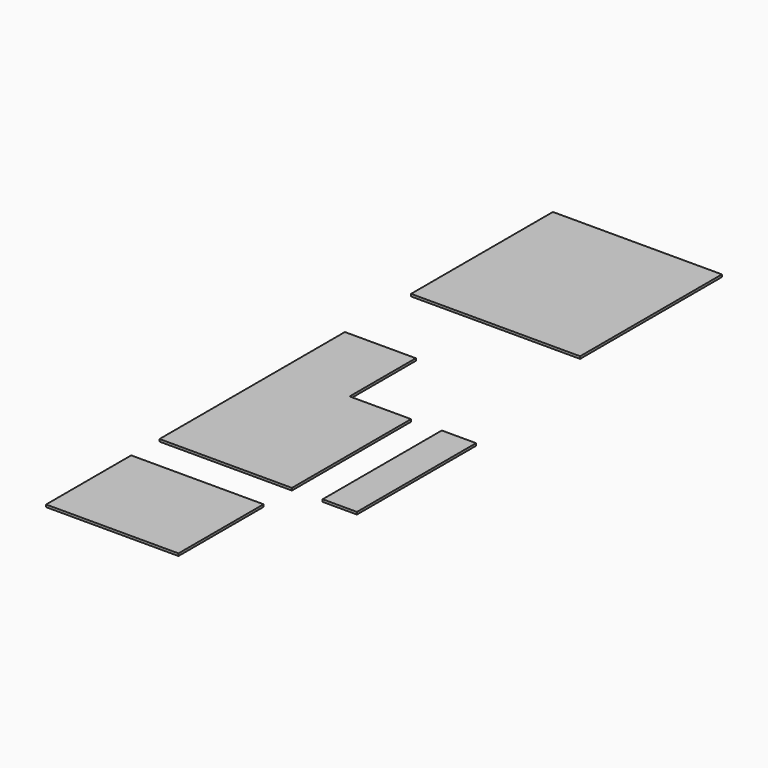
from build123d import *

# Parameters (mm, degrees)
F0_W     = 715
F0_H     = 750
F1_DEPTH = 10
F3_DEPTH = 10
F4_W     = 145
F4_H     = 630
F5_DEPTH = 10
F6_W     = 560
F6_H     = 450
F7_DEPTH = 10


with BuildPart() as f1:
    # F0 (on Top) → F1 (new body)
    with BuildSketch(Plane.XY):
        with Locations((357.5, -375)):
            Rectangle(F0_W, F0_H)
    extrude(amount=F1_DEPTH)


with BuildPart() as f3:
    # F2 (on Top) → F3 (new body)
    with BuildSketch(Plane.XY):
        Polygon((300, -1100), (0, -1100), (0, -2080), (560, -2080), (560, -1450), (300, -1450), align=None)
    extrude(amount=F3_DEPTH)


with BuildPart() as f5:
    # F4 (on Top) → F5 (new body)
    with BuildSketch(Plane.XY):
        with Locations((762.5, -1765)):
            Rectangle(F4_W, F4_H)
    extrude(amount=F5_DEPTH)


with BuildPart() as f7:
    # F6 (on Top) → F7 (new body)
    with BuildSketch(Plane.XY):
        with Locations((280, -2455)):
            Rectangle(F6_W, F6_H)
    extrude(amount=F7_DEPTH)


solid = Compound([f1.part, f3.part, f5.part, f7.part])
